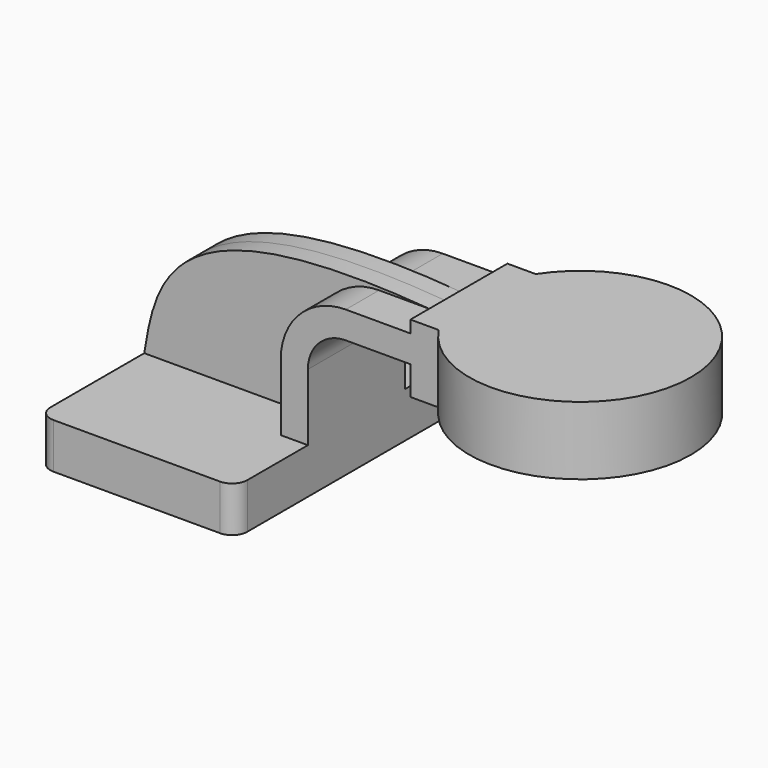
from build123d import *

# Parameters (mm, degrees)
F1_DEPTH = 63.5
F0_W     = 4.3192696064
F0_H     = 12.0912648122
F0_H_2   = 11.3655438513
F0_H_3   = 5.1181913365
F2_DEPTH = 25.4
F3_DEPTH = 7.9375
F5_R     = 6.35


with BuildPart() as f1:
    # F0 (on Front) → F1 (new body, symmetric)
    with BuildSketch(Plane.XZ):
        Polygon((-41.275, -9.525), (41.275, -9.525), (41.275, 9.525), (29.9094561487, 9.525), (-41.275, 9.525), align=None)
    extrude(amount=F1_DEPTH, both=True)

    # F0 (on Front) → F2 (join, symmetric)
    with BuildSketch(Plane.XZ):
        with BuildLine():
            Line((29.9094561487, 9.525), (41.275, 9.525))
            Line((41.275, 9.525), (41.275, 37.4912648122))
            ThreePointArc((41.275, 37.4912648122), (45.9246798487, 48.7165849636), (57.15, 53.3662648122))
            Line((57.15, 53.3662648122), (84.2568697843, 53.3662648122))
            Line((84.2568697843, 53.3662648122), (84.2568697843, 64.7318086635))
            Line((84.2568697843, 64.7318086635), (78.3901438117, 64.7318086635))
            Line((78.3901438117, 64.7318086635), (57.15, 64.7318086635))
            ThreePointArc((57.15, 64.7318086635), (37.8880267196, 56.7532380926), (29.9094561487, 37.4912648122))
            Line((29.9094561487, 37.4912648122), (29.9094561487, 9.525))
        make_face()
        with Locations((86.4165045875, 47.3206324061)):
            Rectangle(F0_W, F0_H)
        with Locations((86.4165045875, 59.0490367378)):
            Rectangle(F0_W, F0_H_2)
        with Locations((86.4165045875, 67.2909043317)):
            Rectangle(F0_W, F0_H_3)
        Polygon((88.5761393907, 69.85), (88.5761393907, 64.7318086635), (88.5761393907, 53.3662648122), (88.5761393907, 41.275), (135.0568697843, 41.275), (135.0568697843, 69.85), align=None)
    extrude(amount=F2_DEPTH, both=True)

    # F0 (on Front) → F3 (join, symmetric)
    with BuildSketch(Plane.XZ):
        with BuildLine():
            add(Edge.make_bspline(
                [(-41.275, 9.525), (-36.5560054779, 38.5108739138), (-31.082380563, 73.5029876232), (78.3901438117, 64.7318086635)],
                knots=[0, 0, 0, 0, 131.7859566353, 131.7859566353, 131.7859566353, 131.7859566353], degree=3))
            Line((-41.275, 9.525), (29.9094561487, 9.525))
            Line((29.9094561487, 9.525), (29.9094561487, 37.4912648122))
            ThreePointArc((29.9094561487, 37.4912648122), (37.8880267196, 56.7532380926), (57.15, 64.7318086635))
            Line((57.15, 64.7318086635), (78.3901438117, 64.7318086635))
        make_face()
    extrude(amount=F3_DEPTH, both=True)

    # F0 (on Front) → F4 (revolve)
    with BuildSketch(Plane.XZ):
        Polygon((88.5761393907, 69.85), (88.5761393907, 64.7318086635), (88.5761393907, 53.3662648122), (88.5761393907, 41.275), (135.0568697843, 41.275), (135.0568697843, 69.85), align=None)
    revolve(axis=Axis((135.0568697843, 0, 55.5625), (0, 0, 1)))

    # F5
    f5_edges = [f1.edges().sort_by_distance(p)[0] for p in [
        (41.275, -63.5, 0),
        (-41.275, -63.5, 0),
        (41.275, 63.5, 0),
        (-41.275, 63.5, 0),
    ]]
    fillet(f5_edges, radius=F5_R)


solid = f1.part
